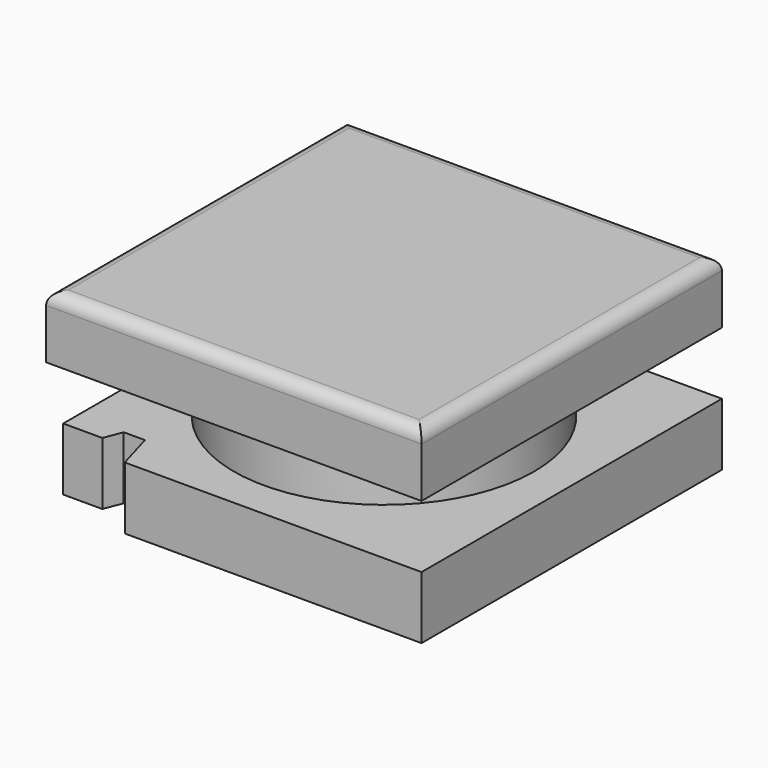
from build123d import *

# Parameters (mm, degrees)
SKETCH_W     = 3
SKETCH_H     = 3
PAD_DEPTH    = 0.5
SKETCH001_R  = 1.2
PAD001_DEPTH = 0.5
SKETCH002_W  = 3
SKETCH002_H  = 3
PAD002_DEPTH = 0.5
FILLET_R     = 0.1
POCKET_DEPTH = 0.5


with BuildPart() as part:
    # Sketch → Pad (new body)
    with BuildSketch(Plane.XY):
        Rectangle(SKETCH_W, SKETCH_H)
    extrude(amount=PAD_DEPTH)

    # Sketch001 (on Face6 of Pad) → Pad001 (join)
    with BuildSketch(Plane.XY.offset(0.5)):
        Circle(SKETCH001_R)
    extrude(amount=PAD001_DEPTH)

    # Sketch002 (on Face8 of Pad001) → Pad002 (join)
    with BuildSketch(Plane.XY.offset(1)):
        Rectangle(SKETCH002_W, SKETCH002_H)
    extrude(amount=PAD002_DEPTH)

    # Fillet
    fillet_edges = [part.edges().sort_by_distance(p)[0] for p in [
        (0, -1.5, 1.5),
        (1.5, 0, 1.5),
        (0, 1.5, 1.5),
        (-1.5, 0, 1.5),
    ]]
    fillet(fillet_edges, radius=FILLET_R)

    # Sketch003 (on Face17 of Fillet) → Pocket (cut)
    with BuildSketch(Plane(origin=(0, 0, 0), x_dir=(1, 0, 0), z_dir=(0, 0, -1))):
        Polygon((-1.5, 1.5), (-1.5, 1.329069), (-1.187675, 1.329069), (-1.131193, 1.185444), (-0.961748, 1.185444), (-0.871377, 1.5), align=None)
    extrude(amount=-POCKET_DEPTH, mode=Mode.SUBTRACT)


solid = part.part
